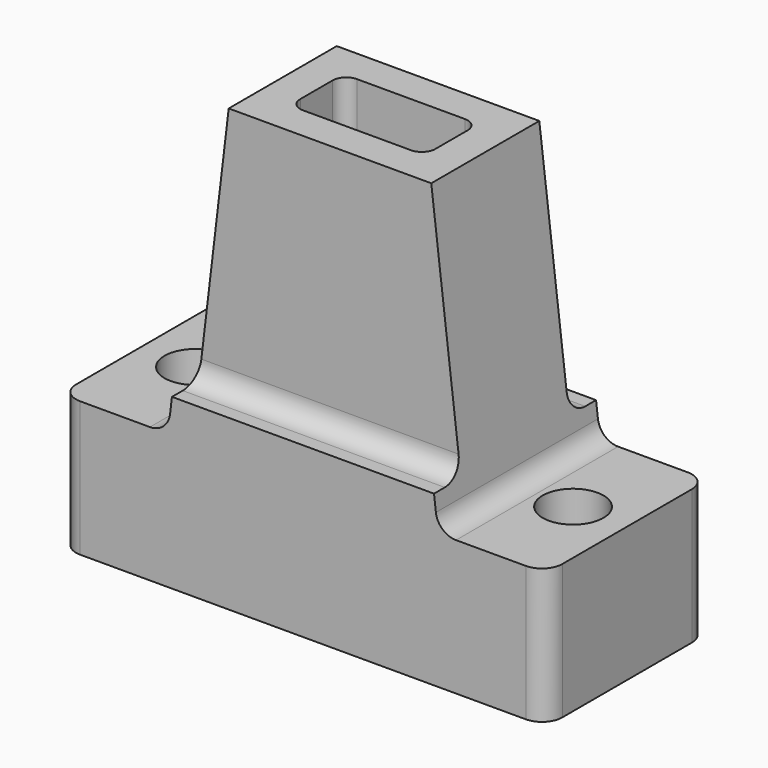
from build123d import *

# Parameters (mm, degrees)
F0_W          = 72
F0_H          = 30
F1_DEPTH      = 62
F3_DEPTH      = 30.001
F4_W          = 15
F4_H          = 47
F5_DEPTH      = 36.001
F5_DEPTH_BACK = 25
F6_W          = 20
F6_H          = 10
F7_DEPTH      = 62.001
F9_D          = 9
F10_R         = 3
F11_R         = 3
F12_R         = 3
F13_R         = 2


with BuildPart() as f1:
    # F0 (on Top) → F1 (new body)
    with BuildSketch(Plane.XY):
        Rectangle(F0_W, F0_H)
    extrude(amount=F1_DEPTH)

    # F2 (on face) → F3 (cut, through all)
    with BuildSketch(Plane.XZ.offset(15)):
        Polygon((-15, 72), (-46, 72), (-46, 20), (-20, 20), (-15, 62), align=None)
        Polygon((46, 72), (15, 72), (15, 62), (20, 20), (46, 20), align=None)
    extrude(amount=-F3_DEPTH, mode=Mode.SUBTRACT)

    # F4 (on Right) → F5 (cut, two sides)
    with BuildSketch(Plane.YZ) as f5_sk:
        with Locations((-17.5, 48.5)):
            Rectangle(F4_W, F4_H)
        with Locations((17.5, 48.5)):
            Rectangle(F4_W, F4_H)
    extrude(amount=-F5_DEPTH, mode=Mode.SUBTRACT)
    extrude(f5_sk.sketch, amount=F5_DEPTH_BACK, mode=Mode.SUBTRACT)

    # F6 (on face) → F7 (cut, through all)
    with BuildSketch(Plane.XY.offset(62)):
        Rectangle(F6_W, F6_H)
    extrude(amount=-F7_DEPTH, mode=Mode.SUBTRACT)

    # F9 (through all)
    with Locations(Plane.XY.offset(20)):
        with Locations((-28, 0), (28, 0)):
            Hole(F9_D / 2)

    # F10
    f10_edges = [f1.edges().sort_by_distance(p)[0] for p in [
        (-36, 15, 10),
        (36, -15, 10),
        (36, 15, 10),
        (-36, -15, 10),
    ]]
    fillet(f10_edges, radius=F10_R)

    # F11
    f11_edges = [f1.edges().sort_by_distance(p)[0] for p in [
        (-20, 0, 20),
        (20, 0, 20),
    ]]
    fillet(f11_edges, radius=F11_R)

    # F12
    f12_edges = [f1.edges().sort_by_distance(p)[0] for p in [
        (0, 10, 25),
        (0, -10, 25),
    ]]
    fillet(f12_edges, radius=F12_R)

    # F13
    f13_edges = [f1.edges().sort_by_distance(p)[0] for p in [
        (10, 5, 31),
        (10, -5, 31),
        (-10, -5, 31),
        (-10, 5, 31),
    ]]
    fillet(f13_edges, radius=F13_R)


solid = f1.part
